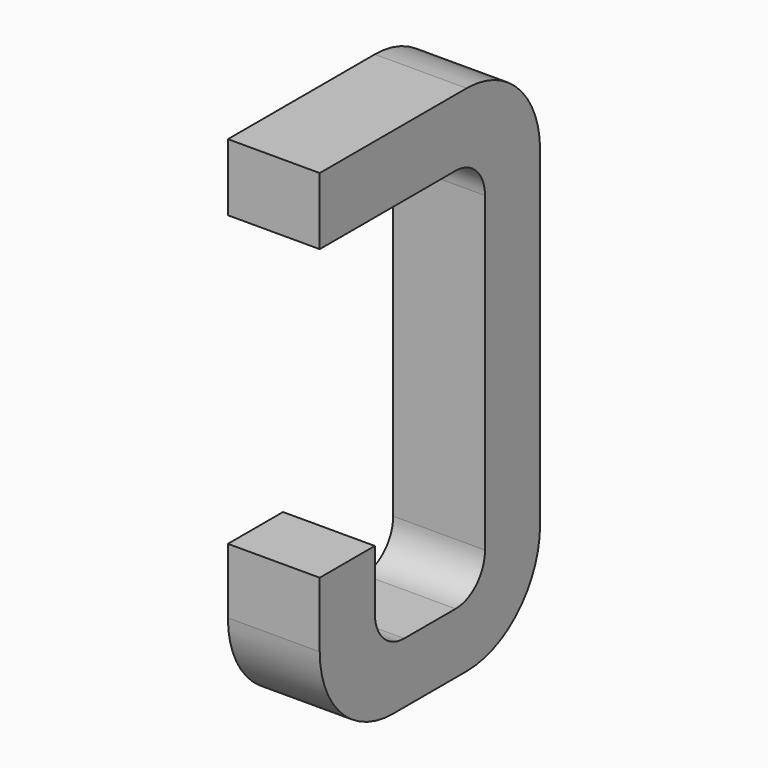
from build123d import *

# Parameters (mm, degrees)
BOX064_W     = 0.5
BOX064_H     = 1.5
BOX064_DEPTH = 2.795
FILLET127_R  = 0.5
FILLET144_R  = 0.5
FILLET137_R  = 0.5
BOX074_W     = 0.75
BOX074_H     = 2.1
BOX074_DEPTH = 1
FILLET128_R  = 0.2
FILLET147_R  = 0.2
FILLET134_R  = 0.2
FILLET126_R  = 0.2
BOX069_W     = 1
BOX069_H     = 1.575
BOX069_DEPTH = 3


with BuildPart() as part:
    # Box064 → Box064 (join)
    with BuildSketch(Plane(origin=(-0.25, 11.125, 0), x_dir=(1, 0, 0), z_dir=(0, 0, 1))):
        with Locations((0.25, 0.75)):
            Rectangle(BOX064_W, BOX064_H)
    extrude(amount=BOX064_DEPTH)

    # Fillet127
    fillet127_edges = [part.edges().sort_by_distance(p)[0] for p in [
        (0, 12.625, 0),
    ]]
    fillet(fillet127_edges, radius=FILLET127_R)

    # Fillet144
    fillet144_edges = [part.edges().sort_by_distance(p)[0] for p in [
        (0, 12.625, 2.795),
    ]]
    fillet(fillet144_edges, radius=FILLET144_R)

    # Fillet137
    fillet137_edges = [part.edges().sort_by_distance(p)[0] for p in [
        (0, 11.125, 0),
    ]]
    fillet(fillet137_edges, radius=FILLET137_R)

    # Box074 → Box074 (cut)
    with BuildSketch(Plane(origin=(-0.5, 11.5, 0.33), x_dir=(0, 1, 0), z_dir=(1, 0, 0))):
        with Locations((0.375, 1.05)):
            Rectangle(BOX074_W, BOX074_H)
    extrude(amount=BOX074_DEPTH, mode=Mode.SUBTRACT)

    # Fillet128
    fillet128_edges = [part.edges().sort_by_distance(p)[0] for p in [
        (0, 11.5, 0.33),
    ]]
    fillet(fillet128_edges, radius=FILLET128_R)

    # Fillet147
    fillet147_edges = [part.edges().sort_by_distance(p)[0] for p in [
        (0, 12.25, 0.33),
    ]]
    fillet(fillet147_edges, radius=FILLET147_R)

    # Fillet134
    fillet134_edges = [part.edges().sort_by_distance(p)[0] for p in [
        (0, 11.5, 2.43),
    ]]
    fillet(fillet134_edges, radius=FILLET134_R)

    # Fillet126
    fillet126_edges = [part.edges().sort_by_distance(p)[0] for p in [
        (0, 12.25, 2.43),
    ]]
    fillet(fillet126_edges, radius=FILLET126_R)

    # Box069 → Box069 (cut)
    with BuildSketch(Plane(origin=(-1, 11, 0.855), x_dir=(0, 1, 0), z_dir=(1, 0, 0))):
        with Locations((0.5, 0.7875)):
            Rectangle(BOX069_W, BOX069_H)
    extrude(amount=BOX069_DEPTH, mode=Mode.SUBTRACT)


with BuildPart() as part_1:
    # Body019 placement: moved
    add(part.part.moved(Location((-1.27, 0, 0))))


solid = part_1.part
